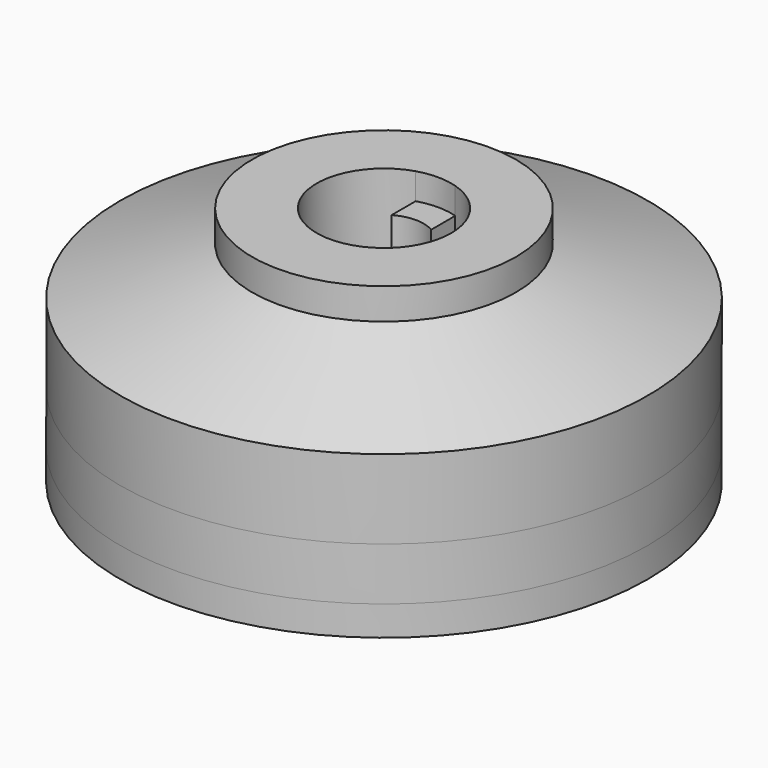
from build123d import *

# Parameters (mm, degrees)
F0_R      = 5
F1_DEPTH  = 6
F2_DEPTH  = 5
F3_DEPTH  = 3.1
F6_R      = 10
F6_R_2    = 3.5
F7_DEPTH  = 2
F8_R      = 10
F8_R_2    = 5.25
F9_DEPTH  = 1.125
F11_DEPTH = 2.125


with BuildPart() as f1:
    # F0 (on Top) → F1 (new body)
    with BuildSketch(Plane.XY):
        Circle(F0_R)
        with BuildLine():
            ThreePointArc((0.75, 2.4372115214), (2.0512191497, 1.5149257408), (2.55, 0))
            ThreePointArc((2.55, 0), (2.0512191497, -1.5149257408), (0.75, -2.4372115214))
            ThreePointArc((0.75, -2.4372115214), (0, -2.55), (-0.75, -2.4372115214))
            ThreePointArc((-0.75, -2.4372115214), (-2.55, 0), (-0.75, 2.4372115214))
            ThreePointArc((-0.75, 2.4372115214), (0, 2.55), (0.75, 2.4372115214))
        make_face(mode=Mode.SUBTRACT)
    extrude(amount=F1_DEPTH)

    # F0 (on Top) → F2 (join)
    with BuildSketch(Plane.XY):
        with BuildLine():
            Line((0.75, 1.2990381057), (0.75, 2.4372115214))
            ThreePointArc((0.75, 2.4372115214), (0, 2.55), (-0.75, 2.4372115214))
            Line((-0.75, 2.4372115214), (-0.75, 1.2990381057))
            ThreePointArc((-0.75, 1.2990381057), (0, 1.5), (0.75, 1.2990381057))
        make_face()
        with BuildLine():
            ThreePointArc((-0.75, -2.4372115214), (0, -2.55), (0.75, -2.4372115214))
            Line((0.75, -2.4372115214), (0.75, -1.2990381057))
            ThreePointArc((0.75, -1.2990381057), (0, -1.5), (-0.75, -1.2990381057))
            Line((-0.75, -1.2990381057), (-0.75, -2.4372115214))
        make_face()
    extrude(amount=F2_DEPTH)

    # F0 (on Top) → F3 (join)
    with BuildSketch(Plane.XY):
        with BuildLine():
            Line((-0.75, 1.2990381057), (-0.75, 2.4372115214))
            ThreePointArc((-0.75, 2.4372115214), (-2.55, 0), (-0.75, -2.4372115214))
            Line((-0.75, -2.4372115214), (-0.75, -1.2990381057))
            ThreePointArc((-0.75, -1.2990381057), (-1.5, 0), (-0.75, 1.2990381057))
        make_face()
        with BuildLine():
            ThreePointArc((0.75, -2.4372115214), (2.0512191497, -1.5149257408), (2.55, 0))
            ThreePointArc((2.55, 0), (2.0512191497, 1.5149257408), (0.75, 2.4372115214))
            Line((0.75, 2.4372115214), (0.75, 1.2990381057))
            ThreePointArc((0.75, 1.2990381057), (1.2990381057, 0.75), (1.5, 0))
            ThreePointArc((1.5, 0), (1.2990381057, -0.75), (0.75, -1.2990381057))
            Line((0.75, -1.2990381057), (0.75, -2.4372115214))
        make_face()
    extrude(amount=F3_DEPTH)

    # F4 (on Front) → F5 (revolve)
    with BuildSketch(Plane.XZ):
        Polygon((-10, 0), (-4, 0), (-4, 5), (-4.5, 5), (-10, 3), align=None)
    revolve(axis=Axis((0, 0, 1.2425027974), (0, 0, 1)))

    # F6 (on face) → F7 (join)
    with BuildSketch(Plane(origin=(0, 0, 0), x_dir=(1, 0, 0), z_dir=(0, 0, -1))):
        Circle(F6_R)
        Circle(F6_R_2, mode=Mode.SUBTRACT)
    extrude(amount=F7_DEPTH)

    # F8 (on face) → F9 (join)
    with BuildSketch(Plane(origin=(0, 0, -2), x_dir=(1, 0, 0), z_dir=(0, 0, -1))):
        Circle(F8_R)
        Circle(F8_R_2, mode=Mode.SUBTRACT)
    extrude(amount=F9_DEPTH)

    # F10 (on face) → F11 (cut)
    with BuildSketch(Plane(origin=(0, 0, -3.125), x_dir=(1, 0, 0), z_dir=(0, 0, -1))):
        with BuildLine():
            ThreePointArc((-7, -2), (-5.5857864376, -1.4142135624), (-5, 0))
            ThreePointArc((-5, 0), (-5.5857864376, 1.4142135624), (-7, 2))
            ThreePointArc((-7, 2), (-9, 0), (-7, -2))
        make_face()
        with BuildLine():
            ThreePointArc((7, -2), (8.4142135624, -1.4142135624), (9, 0))
            ThreePointArc((9, 0), (8.4142135624, 1.4142135624), (7, 2))
            ThreePointArc((7, 2), (5, 0), (7, -2))
        make_face()
    extrude(amount=-F11_DEPTH, mode=Mode.SUBTRACT)


solid = f1.part
